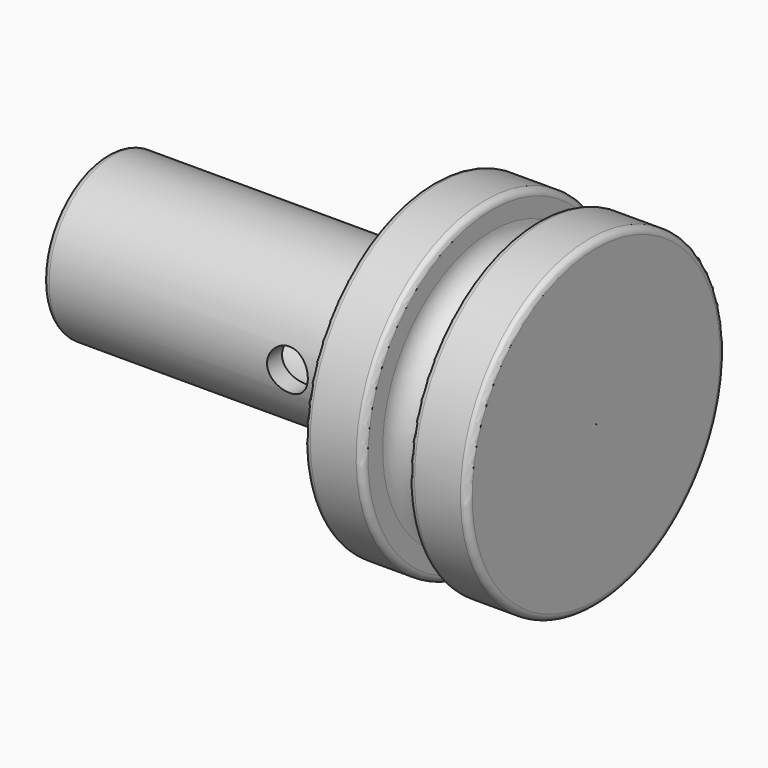
from build123d import *

# Parameters (mm, degrees)
F2_R     = 6.223
F2_R_2   = 4.7625
F3_DEPTH = 25.4
F4_R     = 1.5875
F5_DEPTH = 12.7
F6_R     = 1.7399
F7_R     = 0.508
F8_R     = 0.0254
F9_DEPTH = 38.1010001


with BuildPart() as f1:
    # F0 (on Front) → F1 (revolve)
    with BuildSketch(Plane.XZ):
        Polygon((-49.5116594105, -20.1157029331), (-49.5116594105, -32.6887029331), (-36.8116594105, -32.6887029331), (-36.8116594105, -20.1157029331), (-41.3963594105, -20.1157029331), (-41.3963594105, -23.7987029331), (-44.9269594105, -23.7987029331), (-44.9269594105, -20.1157029331), align=None)
    revolve(axis=Axis((-43.1616594105, 0, -32.6887029331), (1, 0, 0)))

    # F2 (on face) → F3 (join)
    with BuildSketch(Plane(origin=(-49.5116594105, 0, 0), x_dir=(0, -1, 0), z_dir=(-1, 0, 0))):
        with Locations((0, -32.6887029331)):
            Circle(F2_R)
        with Locations((0, -32.6887029331)):
            Circle(F2_R_2, mode=Mode.SUBTRACT)
    extrude(amount=F3_DEPTH)

    # F4 (on Front) → F5 (cut, symmetric)
    with BuildSketch(Plane.XZ):
        with Locations((-55.8616594105, -32.6887629926)):
            Circle(F4_R)
    extrude(amount=F5_DEPTH, both=True, mode=Mode.SUBTRACT)

    # F6
    f6_edges = [f1.edges().sort_by_distance(p)[0] for p in [
        (-41.396359, 0, -41.578703),
        (-44.926959, 0, -41.578703),
    ]]
    fillet(f6_edges, radius=F6_R)

    # F7
    f7_edges = [f1.edges().sort_by_distance(p)[0] for p in [
        (-49.511659, 0, -45.261703),
        (-49.511659, 6.223, -32.688703),
        (-74.911659, 6.223, -32.688703),
        (-36.811659, 0, -45.261703),
        (-41.396359, 0, -45.261703),
        (-44.926959, 0, -45.261703),
    ]]
    fillet(f7_edges, radius=F7_R)

    # F8 (on face) → F9 (cut, through all)
    with BuildSketch(Plane.YZ.offset(-36.8116594105)):
        with Locations((0, -32.6887029331)):
            Circle(F8_R)
    extrude(amount=-F9_DEPTH, mode=Mode.SUBTRACT)


solid = f1.part
